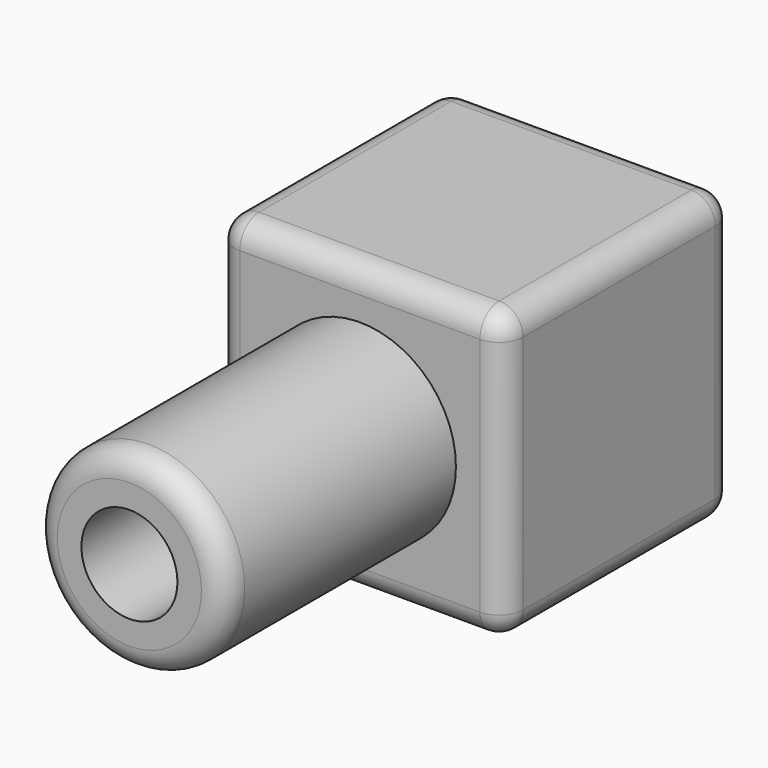
from build123d import *

# Parameters (mm, degrees)
F0_W     = 30
F0_H     = 30
F1_DEPTH = 30
F2_R     = 10
F3_DEPTH = 30
F4_R     = 2.5
F5_R     = 5
F6_DEPTH = 60.001


with BuildPart() as f1:
    # F0 (on Front) → F1 (new body)
    with BuildSketch(Plane.XZ):
        Rectangle(F0_W, F0_H)
    extrude(amount=F1_DEPTH)

    # F2 (on face) → F3 (join)
    with BuildSketch(Plane.XZ.offset(30)):
        Circle(F2_R)
    extrude(amount=F3_DEPTH)

    # F4
    f4_edges = [f1.edges().sort_by_distance(p)[0] for p in [
        (0, -30, 15),
        (-15, -30, 0),
        (0, -30, -15),
        (15, -30, 0),
        (-10, -60, 0),
        (-15, -15, 15),
        (-15, -15, -15),
        (-15, 0, 0),
        (15, -15, 15),
        (15, -15, -15),
        (15, 0, 0),
        (0, 0, 15),
        (0, 0, -15),
    ]]
    fillet(f4_edges, radius=F4_R)

    # F5 (on face) → F6 (cut, through all)
    with BuildSketch(Plane.XZ.offset(60)):
        Circle(F5_R)
    extrude(amount=-F6_DEPTH, mode=Mode.SUBTRACT)


solid = f1.part
